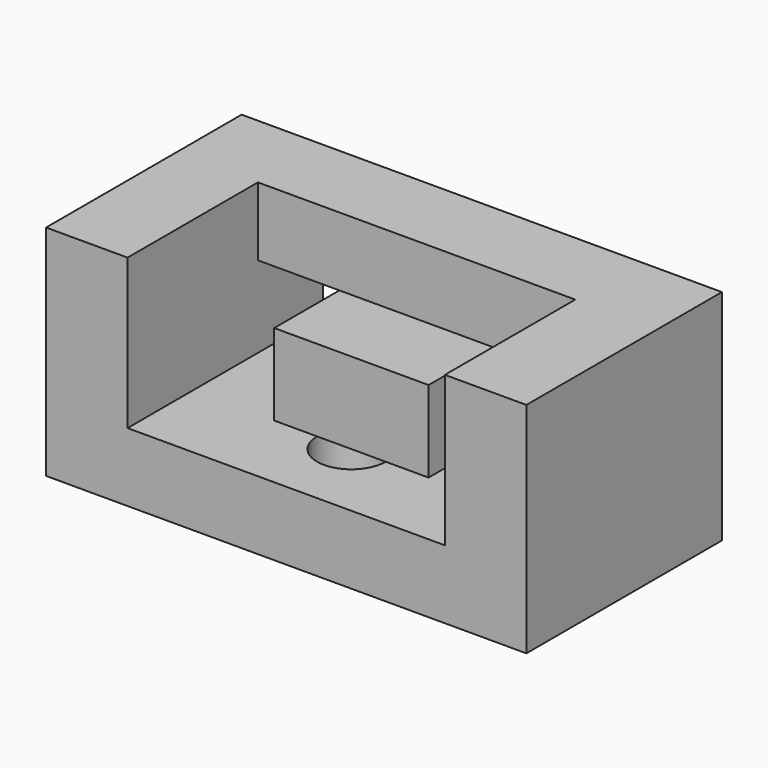
from build123d import *

# Parameters (mm, degrees)
F0_W     = 112
F0_H     = 51
F1_DEPTH = 57
F2_W     = 74
F2_H     = 16
F3_DEPTH = 38
F4_W     = 19
F4_H     = 19
F5_DEPTH = 57.001
F6_W     = 36
F6_H     = 19
F7_DEPTH = 19
F9_DEPTH = 16


with BuildPart() as f1:
    # F0 (on Front) → F1 (new body)
    with BuildSketch(Plane.XZ):
        with Locations((56, 25.5)):
            Rectangle(F0_W, F0_H)
    extrude(amount=F1_DEPTH)

    # F2 (on face) → F3 (cut)
    with BuildSketch(Plane.XZ.offset(57)):
        with Locations((56, 43)):
            Rectangle(F2_W, F2_H)
    extrude(amount=-F3_DEPTH, mode=Mode.SUBTRACT)

    # F4 (on face) → F5 (cut, through all)
    with BuildSketch(Plane.XZ.offset(57)):
        with Locations((28.5, 25.5)):
            Rectangle(F4_W, F4_H)
        with Locations((83.5, 25.5)):
            Rectangle(F4_W, F4_H)
    extrude(amount=-F5_DEPTH, mode=Mode.SUBTRACT)

    # F6 (on face) → F7 (cut)
    with BuildSketch(Plane.XZ.offset(57)):
        with Locations((56, 25.5)):
            Rectangle(F6_W, F6_H)
    extrude(amount=-F7_DEPTH, mode=Mode.SUBTRACT)

    # F8 (on face) → F9 (cut)
    with BuildSketch(Plane(origin=(0, 0, 0), x_dir=(1, 0, 0), z_dir=(0, 0, -1))):
        with BuildLine():
            ThreePointArc((64, 38), (61.656854, 43.656854), (56, 46))
            ThreePointArc((56, 46), (50.343146, 32.343146), (64, 38))
        make_face()
    extrude(amount=-F9_DEPTH, mode=Mode.SUBTRACT)


solid = f1.part
